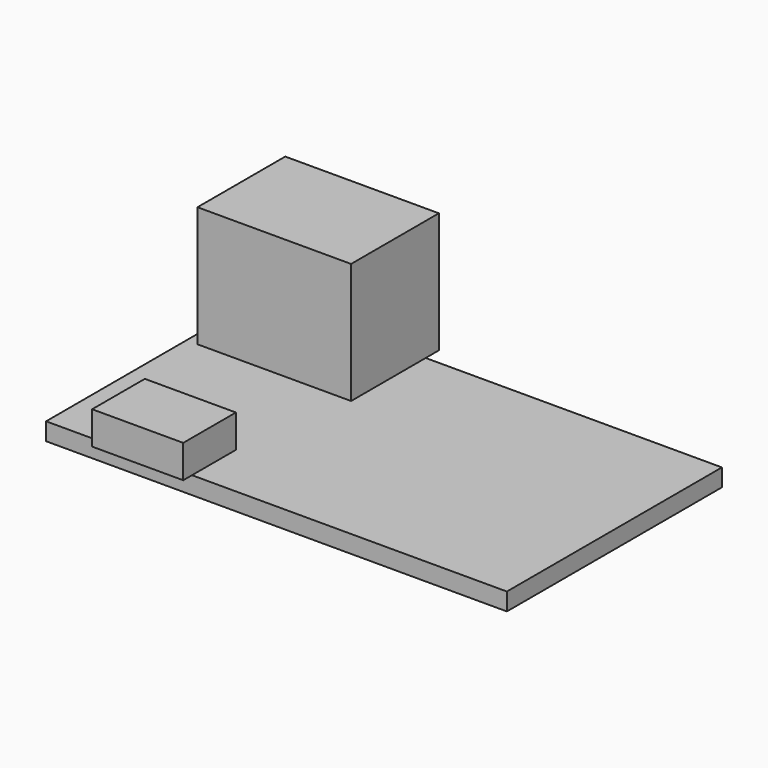
from build123d import *

# Parameters (mm, degrees)
BOX001_W     = 14
BOX001_H     = 10
BOX001_DEPTH = 11
BOX002_W     = 8.3
BOX002_H     = 6
BOX002_DEPTH = 3
BOX_W        = 42
BOX_H        = 24.5
BOX_DEPTH    = 1.6


with BuildPart() as cube001:
    # Box001 → Box001 (new body)
    with BuildSketch(Plane(origin=(1, 16, 1.6), x_dir=(1, 0, 0), z_dir=(0, 0, 1))):
        with Locations((7, 5)):
            Rectangle(BOX001_W, BOX001_H)
    extrude(amount=BOX001_DEPTH)


with BuildPart() as cube002:
    # Box002 → Box002 (new body)
    with BuildSketch(Plane(origin=(5, -1, 1.6), x_dir=(1, 0, 0), z_dir=(0, 0, 1))):
        with Locations((4.15, 3)):
            Rectangle(BOX002_W, BOX002_H)
    extrude(amount=BOX002_DEPTH)


with BuildPart() as obj1:
    # Box → Box (new body)
    with BuildSketch(Plane.XY):
        with Locations((21, 12.25)):
            Rectangle(BOX_W, BOX_H)
    extrude(amount=BOX_DEPTH)

    # Fusion: union Cube001, Cube002
    add(cube001.part)
    add(cube002.part)


with BuildPart() as obj1_1:
    # Fusion placement: moved
    add(obj1.part.moved(Location((0, -51, 0))))


solid = obj1_1.part
